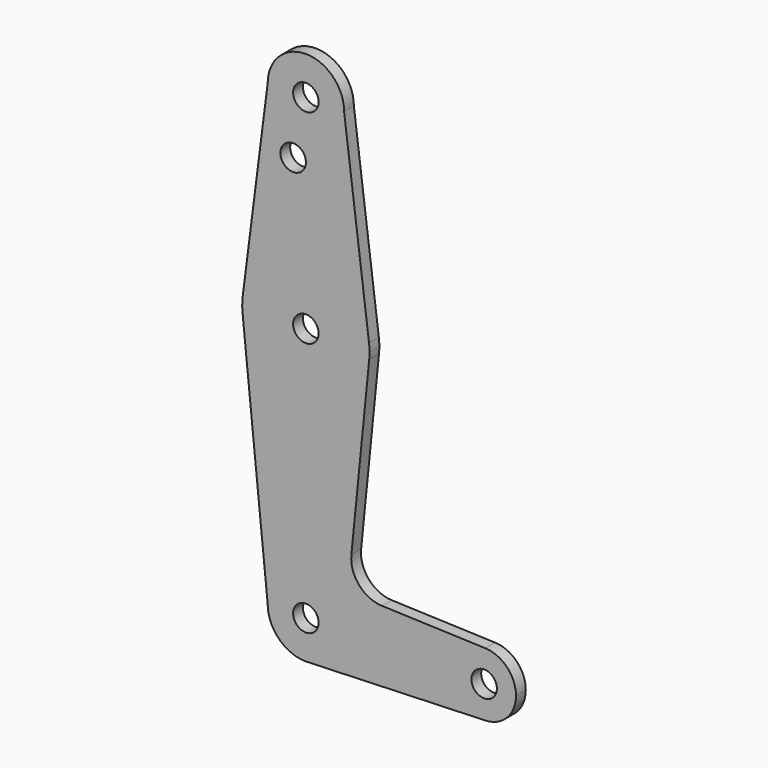
from build123d import *

# Parameters (mm, degrees)
F0_R     = 3.175
F1_DEPTH = 3.048


with BuildPart() as f1:
    # F0 (on Front) → F1 (new body)
    with BuildSketch(Plane.XZ):
        with BuildLine():
            Line((-9.525, 114.3), (-15.747457, 65.508289))
            ThreePointArc((-15.747457, 65.508289), (0, 79.375), (15.747457, 65.508289))
            Line((15.747457, 65.508289), (9.525, 114.3))
            ThreePointArc((9.525, 114.3), (0, 104.775), (-9.525, 114.3))
        make_face()
        with Locations((-3.175, 100.0252)):
            Circle(F0_R, mode=Mode.SUBTRACT)
        with BuildLine():
            ThreePointArc((9.525, 114.3), (0, 123.825), (-9.525, 114.3))
            ThreePointArc((-9.525, 114.3), (0, 104.775), (9.525, 114.3))
        make_face()
        with Locations((0, 114.3)):
            Circle(F0_R, mode=Mode.SUBTRACT)
        with BuildLine():
            ThreePointArc((-15.747457, 65.508289), (-15.873668, 63.705667), (-15.794203, 61.90038))
            ThreePointArc((-15.794203, 61.90038), (0, 47.625), (15.794203, 61.90038))
            ThreePointArc((15.794203, 61.90038), (15.854788, 62.699171), (15.875, 63.5))
            ThreePointArc((15.875, 63.5), (15.843082, 64.506168), (15.747457, 65.508289))
            ThreePointArc((15.747457, 65.508289), (0, 79.375), (-15.747457, 65.508289))
        make_face()
        with Locations((0, 63.5)):
            Circle(F0_R, mode=Mode.SUBTRACT)
        with BuildLine():
            ThreePointArc((-9.525, 0), (0, 9.525), (9.525, 0))
            ThreePointArc((9.525, 0), (6.970557, -6.491299), (0.677344, -9.500886))
            Line((0.677344, -9.500886), (44.732405, -7.932475))
            ThreePointArc((44.732405, -7.932475), (36.5125, 0.000539), (44.733482, 7.932436))
            Line((44.733482, 7.932436), (18.967599, 8.853234))
            ThreePointArc((18.967599, 8.853234), (13.261199, 11.571359), (11.341185, 17.593381))
            Line((11.341185, 17.593381), (15.794203, 61.90038))
            ThreePointArc((15.794203, 61.90038), (0, 47.625), (-15.794203, 61.90038))
            Line((-15.794203, 61.90038), (-9.525, 0))
        make_face()
        with BuildLine():
            ThreePointArc((0.677344, -9.500886), (6.970557, -6.491299), (9.525, 0))
            ThreePointArc((9.525, 0), (0, 9.525), (-9.525, 0))
            ThreePointArc((-9.525, 0), (-6.735192, -6.735192), (0, -9.525))
            Line((0, -9.525), (0.677344, -9.500886))
        make_face()
        Circle(F0_R, mode=Mode.SUBTRACT)
        with BuildLine():
            ThreePointArc((44.733482, 7.932436), (36.5125, 0.000539), (44.732405, -7.932475))
            ThreePointArc((44.732405, -7.932475), (50.161633, -5.51191), (52.3875, 0))
            ThreePointArc((52.3875, 0), (50.162007, 5.511523), (44.733482, 7.932436))
        make_face()
        with Locations((44.45, 0)):
            Circle(F0_R, mode=Mode.SUBTRACT)
    extrude(amount=F1_DEPTH)


solid = f1.part
